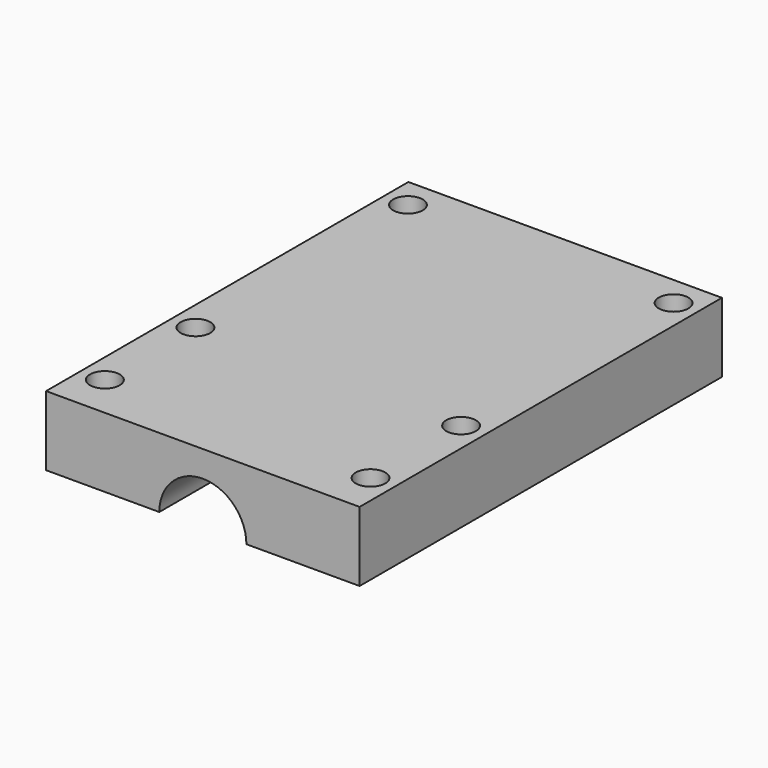
from build123d import *

# Parameters (mm, degrees)
F0_W     = 36
F0_H     = 52
F1_DEPTH = 8
F3_D     = 3.4
F5_DEPTH = 52.001


with BuildPart() as f1:
    # F0 (on Top) → F1 (new body)
    with BuildSketch(Plane.XY):
        with Locations((0, 26)):
            Rectangle(F0_W, F0_H)
    extrude(amount=F1_DEPTH)

    # F3 (through all)
    with Locations(Plane.XY.offset(8)):
        with Locations((15.25, 48.5), (15.25, 5), (-15.25, 18), (-15.25, 48.5), (15.25, 18), (-15.25, 5)):
            Hole(F3_D / 2)

    # F4 (on face) → F5 (cut, through all)
    with BuildSketch(Plane.XZ):
        with BuildLine():
            ThreePointArc((-5, 0), (0, -5), (5, 0))
            Line((5, 0), (-5, 0))
        make_face()
        with BuildLine():
            Line((-5, 0), (5, 0))
            ThreePointArc((5, 0), (0, 5), (-5, 0))
        make_face()
    extrude(amount=-F5_DEPTH, mode=Mode.SUBTRACT)


solid = f1.part
